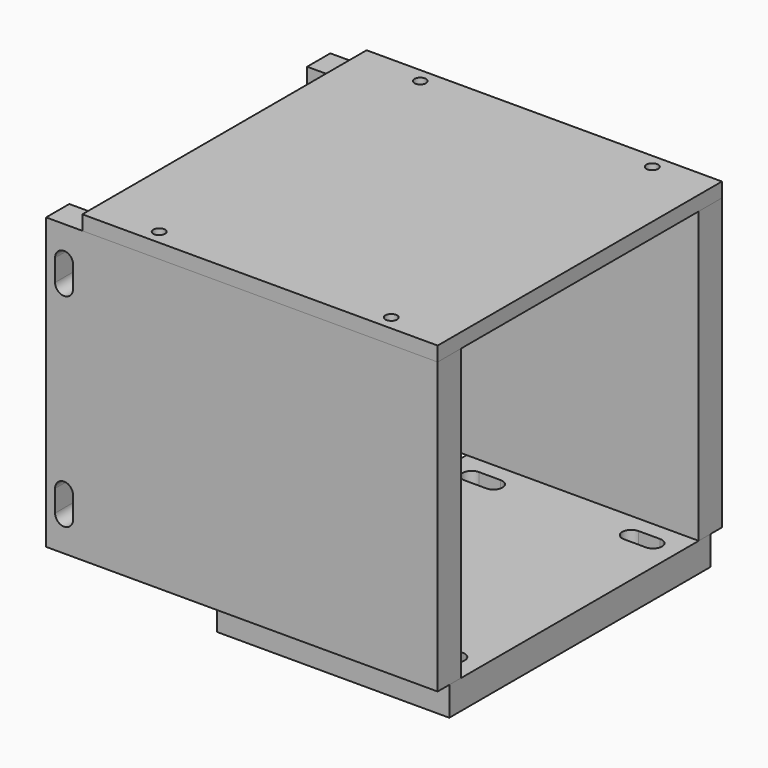
from build123d import *

# Parameters (mm, degrees)
F0_W      = 101.6
F0_H      = 142.875
F1_DEPTH  = 12.7
F3_DEPTH  = 12.701
F4_W      = 171.45
F4_H      = 127
F5_DEPTH  = 6.35
F7_DEPTH  = 149.226
F9_D      = 5.1054
F9_DEPTH  = 15.875
F9_TIP    = 1.5338169022
F11_W     = 155.575
F11_H     = 155.575
F11_R     = 2.5527
F12_DEPTH = 6.35


with BuildPart() as f1:
    # F0 (on Top) → F1 (new body)
    with BuildSketch(Plane.XY):
        Rectangle(F0_W, F0_H)
    extrude(amount=-F1_DEPTH)

    # F2 (on face) → F3 (cut, through all)
    with BuildSketch(Plane.XY):
        with BuildLine():
            ThreePointArc((-39.6875, -50.038), (-43.6245, -53.975), (-39.6875, -57.912))
            Line((-39.6875, -57.912), (-30.1625, -57.912))
            ThreePointArc((-30.1625, -57.912), (-26.2255, -53.975), (-30.1625, -50.038))
            Line((-30.1625, -50.038), (-39.6875, -50.038))
        make_face()
        with BuildLine():
            Line((30.1625, -57.912), (39.6875, -57.912))
            ThreePointArc((39.6875, -57.912), (43.6245, -53.975), (39.6875, -50.038))
            Line((39.6875, -50.038), (30.1625, -50.038))
            ThreePointArc((30.1625, -50.038), (26.2255, -53.975), (30.1625, -57.912))
        make_face()
        with BuildLine():
            ThreePointArc((-39.6875, 57.912), (-43.6245, 53.975), (-39.6875, 50.038))
            Line((-39.6875, 50.038), (-30.1625, 50.038))
            ThreePointArc((-30.1625, 50.038), (-26.2255, 53.975), (-30.1625, 57.912))
            Line((-30.1625, 57.912), (-39.6875, 57.912))
        make_face()
        with BuildLine():
            ThreePointArc((39.6875, 50.038), (43.6245, 53.975), (39.6875, 57.912))
            Line((39.6875, 57.912), (30.1625, 57.912))
            ThreePointArc((30.1625, 57.912), (26.2255, 53.975), (30.1625, 50.038))
            Line((30.1625, 50.038), (39.6875, 50.038))
        make_face()
    extrude(amount=-F3_DEPTH, mode=Mode.SUBTRACT)


with BuildPart() as f5:
    # F4 (on face) → F5 (new body, symmetric)
    with BuildSketch(Plane.XZ.offset(71.4375)):
        with Locations((-34.925, 63.5)):
            Rectangle(F4_W, F4_H)
    extrude(amount=F5_DEPTH, both=True)

    # F6 (on face) → F7 (cut, through all)
    with BuildSketch(Plane.XZ.offset(77.7875)):
        with BuildLine():
            ThreePointArc((-116.713, 103.1875), (-112.776, 99.2505), (-108.839, 103.1875))
            Line((-108.839, 103.1875), (-108.839, 112.7125))
            ThreePointArc((-108.839, 112.7125), (-112.776, 116.6495), (-116.713, 112.7125))
            Line((-116.713, 112.7125), (-116.713, 103.1875))
        make_face()
        with BuildLine():
            ThreePointArc((-116.713, 14.2875), (-112.776, 10.3505), (-108.839, 14.2875))
            Line((-108.839, 14.2875), (-108.839, 23.8125))
            ThreePointArc((-108.839, 23.8125), (-112.776, 27.7495), (-116.713, 23.8125))
            Line((-116.713, 23.8125), (-116.713, 14.2875))
        make_face()
    extrude(amount=-F7_DEPTH, mode=Mode.SUBTRACT)

    # F9
    with Locations(Plane.XY.offset(127)):
        with Locations((-76.2, -71.4375), (25.4, -71.4375)):
            Hole(F9_D / 2, depth=F9_DEPTH)
            with Locations((0, 0, -(F9_DEPTH + F9_TIP / 2))):  # 118° drill point
                Cone(0, F9_D / 2, F9_TIP, mode=Mode.SUBTRACT)


with BuildPart() as f10_1:
    # F10: instance of F5
    add(f5.part.mirror(Plane.XZ))


with BuildPart() as f12:
    # F11 (on face) → F12 (new body)
    with BuildSketch(Plane.XY.offset(127)):
        with Locations((-26.9875, 0)):
            Rectangle(F11_W, F11_H)
        with Locations((-76.2, -71.4375)):
            Circle(F11_R, mode=Mode.SUBTRACT)
        with Locations((25.4, -71.4375)):
            Circle(F11_R, mode=Mode.SUBTRACT)
        with Locations((-76.2, 71.4375)):
            Circle(F11_R, mode=Mode.SUBTRACT)
        with Locations((25.4, 71.4375)):
            Circle(F11_R, mode=Mode.SUBTRACT)
    extrude(amount=F12_DEPTH)


solid = Compound([f1.part, f5.part, f10_1.part, f12.part])
